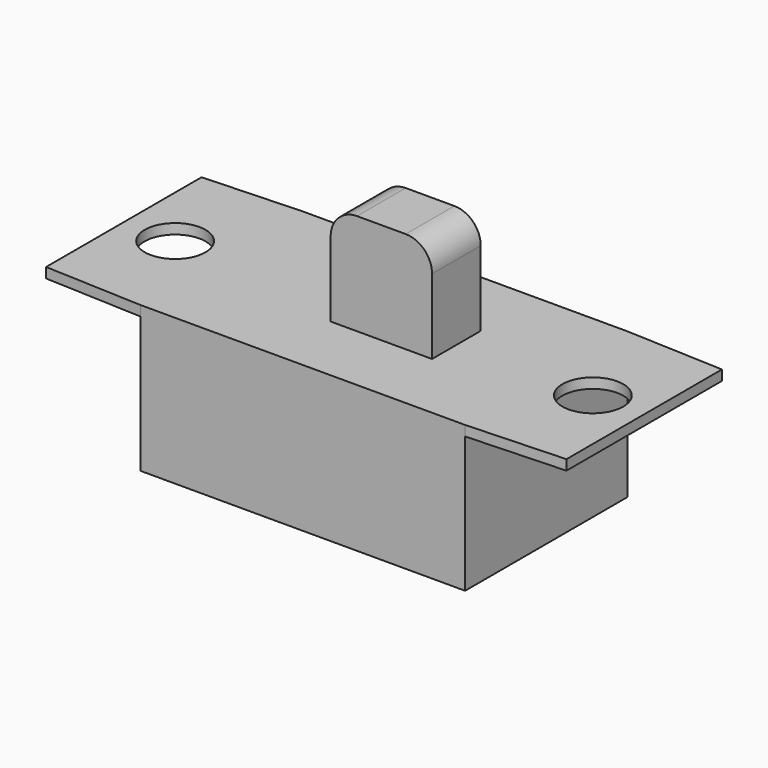
from build123d import *

# Parameters (mm, degrees)
F0_W     = 16
F0_H     = 10
F1_DEPTH = 7.2
F2_W     = 5
F2_H     = 3
F3_DEPTH = 5
F4_R     = 1.3
F5_R     = 1.5
F6_DEPTH = 0.5


with BuildPart() as f1:
    # F0 (on Top) → F1 (new body)
    with BuildSketch(Plane.XY):
        Rectangle(F0_W, F0_H)
    extrude(amount=F1_DEPTH)

    # F2 (on face) → F3 (join)
    with BuildSketch(Plane.XY.offset(7.2)):
        with Locations((1.069713, 0)):
            Rectangle(F2_W, F2_H)
    extrude(amount=F3_DEPTH)

    # F4
    f4_edges = [f1.edges().sort_by_distance(p)[0] for p in [
        (-1.430287, 0, 12.2),
        (3.569713, 0, 12.2),
    ]]
    fillet(f4_edges, radius=F4_R)

    # F5 (on face) → F6 (join)
    with BuildSketch(Plane.XY.offset(7.2)):
        Polygon((0, 5), (-8, 5), (-12.830287, 4.792277), (-12.830287, 0), (-12.830287, -4.792277), (-8, -5), (0, -5), (8, -5), (12.830287, -4.792277), (12.830287, 0), (12.830287, 4.792277), (8, 5), align=None)
        with Locations((-10.3, 0)):
            Circle(F5_R, mode=Mode.SUBTRACT)
        with Locations((10.3, 0)):
            Circle(F5_R, mode=Mode.SUBTRACT)
    extrude(amount=-F6_DEPTH)


solid = f1.part
